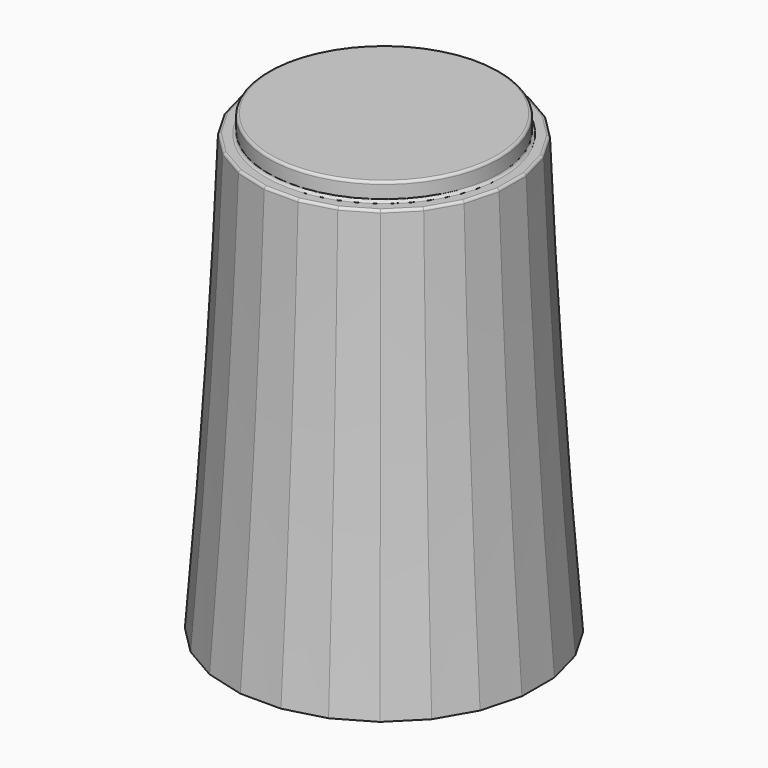
from build123d import *

# Parameters (mm, degrees)
SKETCH403_R     = 4.5
PAD077_DEPTH    = 0.7
SKETCH410_R     = 5
POCKET076_DEPTH = 1
SKETCH404_R     = 4.65
POCKET071_DEPTH = 1
POCKET072_DEPTH = 8
CHAMFER062_SIZE = 1.4
CHAMFER064_SIZE = 0.3
FILLET034_R     = 0.1


with BuildPart() as part:
    # Sketch417 → AdditiveLoft045 section 0
    with BuildSketch(Plane.XY):
        Polygon((-0.789915, 6), (-2.315914, 5.59111), (-3.684086, 4.801195), (-4.801195, 3.684086), (-5.59111, 2.315914), (-6, 0.789915), (-6, -0.789915), (-5.59111, -2.315914), (-4.801195, -3.684086), (-3.684086, -4.801195), (-2.315914, -5.59111), (-0.789915, -6), (0.789915, -6), (2.315914, -5.59111), (3.684086, -4.801195), (4.801195, -3.684086), (5.59111, -2.315914), (6, -0.789915), (6, 0.789915), (5.59111, 2.315914), (4.801195, 3.684086), (3.684086, 4.801195), (2.315914, 5.59111), (0.789915, 6), align=None)
    # Sketch414 → AdditiveLoft045 section 1
    with BuildSketch(Plane.XY.offset(7)):
        Polygon((-0.724089, 5.5), (-2.122921, 5.125184), (-3.377079, 4.401095), (-4.401095, 3.377079), (-5.125184, 2.122921), (-5.5, 0.724089), (-5.5, -0.724089), (-5.125184, -2.122921), (-4.401095, -3.377079), (-3.377079, -4.401095), (-2.122921, -5.125184), (-0.724089, -5.5), (0.724089, -5.5), (2.122921, -5.125184), (3.377079, -4.401095), (4.401095, -3.377079), (5.125184, -2.122921), (5.5, -0.724089), (5.5, 0.724089), (5.125184, 2.122921), (4.401095, 3.377079), (3.377079, 4.401095), (2.122921, 5.125184), (0.724089, 5.5), align=None)
    # Sketch416 → AdditiveLoft045 section 2
    with BuildSketch(Plane.XY.offset(17)):
        Polygon((-4.659258, 1.929928), (-5, 0.658262), (-5, -0.658262), (-4.659258, -1.929928), (-4.000996, -3.070072), (-3.070072, -4.000996), (-1.929928, -4.659258), (-0.658262, -5), (0.658262, -5), (1.929928, -4.659258), (3.070072, -4.000996), (4.000996, -3.070072), (4.659258, -1.929928), (5, -0.658262), (5, 0.658262), (4.659258, 1.929928), (4.000996, 3.070072), (3.070072, 4.000996), (1.929928, 4.659258), (0.658262, 5), (-0.658262, 5), (-1.929928, 4.659258), (-3.070072, 4.000996), (-4.000996, 3.070072), align=None)
    loft()

    # Sketch403 (on Face3 of AdditiveLoft045) → Pad077 (new body)
    with BuildSketch(Plane.XY.offset(17)):
        Circle(SKETCH403_R)
    extrude(amount=PAD077_DEPTH)

    # Sketch410 (on Face1 of Pad077) → Pocket076 (cut)
    with BuildSketch(Plane(origin=(0, 0, 0), x_dir=(1, 0, 0), z_dir=(0, 0, -1))):
        Circle(SKETCH410_R)
    extrude(amount=-POCKET076_DEPTH, mode=Mode.SUBTRACT)

    # Sketch404 (on Face28 of Pocket076) → Pocket071 (cut)
    with BuildSketch(Plane(origin=(0, 0, 1), x_dir=(1, 0, 0), z_dir=(0, 0, -1))):
        Circle(SKETCH404_R)
    extrude(amount=-POCKET071_DEPTH, mode=Mode.SUBTRACT)

    # Sketch405 (on Face32 of Pocket071) → Pocket072 (cut)
    with BuildSketch(Plane(origin=(0, 0, 2), x_dir=(1, 0, 0), z_dir=(0, 0, -1))):
        with BuildLine():
            ThreePointArc((-1.741757, 2.442598), (0, -3), (1.741757, 2.442598))
            Line((-1.741757, 2.442598), (1.741757, 2.442598))
        make_face()
    extrude(amount=-POCKET072_DEPTH, mode=Mode.SUBTRACT)

    # Chamfer062
    chamfer062_edges = [part.edges().sort_by_distance(p)[0] for p in [
        (0, 3, 2),
        (0, -2.442598, 2),
    ]]
    chamfer(chamfer062_edges, length=CHAMFER062_SIZE)

    # Chamfer064
    chamfer064_edges = [part.edges().sort_by_distance(p)[0] for p in [
        (-4.65, 0, 1),
    ]]
    chamfer(chamfer064_edges, length=CHAMFER064_SIZE)

    # Fillet034
    fillet034_edges = [part.edges().sort_by_distance(p)[0] for p in [
        (-4.5, 0, 17.7),
        (-4.829629, 1.294095, 17),
        (-4.330127, 2.5, 17),
        (-5, 0, 17),
        (-3.535534, 3.535534, 17),
        (-4.829629, -1.294095, 17),
        (-2.5, 4.330127, 17),
        (-4.330127, -2.5, 17),
        (-1.294095, 4.829629, 17),
        (-3.535534, -3.535534, 17),
        (0, 5, 17),
        (-2.5, -4.330127, 17),
        (1.294095, 4.829629, 17),
        (-1.294095, -4.829629, 17),
        (2.5, 4.330127, 17),
        (0, -5, 17),
        (3.535534, 3.535534, 17),
        (1.294095, -4.829629, 17),
        (4.330127, 2.5, 17),
        (2.5, -4.330127, 17),
        (4.829629, 1.294095, 17),
        (3.535534, -3.535534, 17),
        (5, 0, 17),
        (4.330127, -2.5, 17),
        (4.829629, -1.294095, 17),
        (-4.5, 0, 17),
    ]]
    fillet(fillet034_edges, radius=FILLET034_R)


solid = part.part
